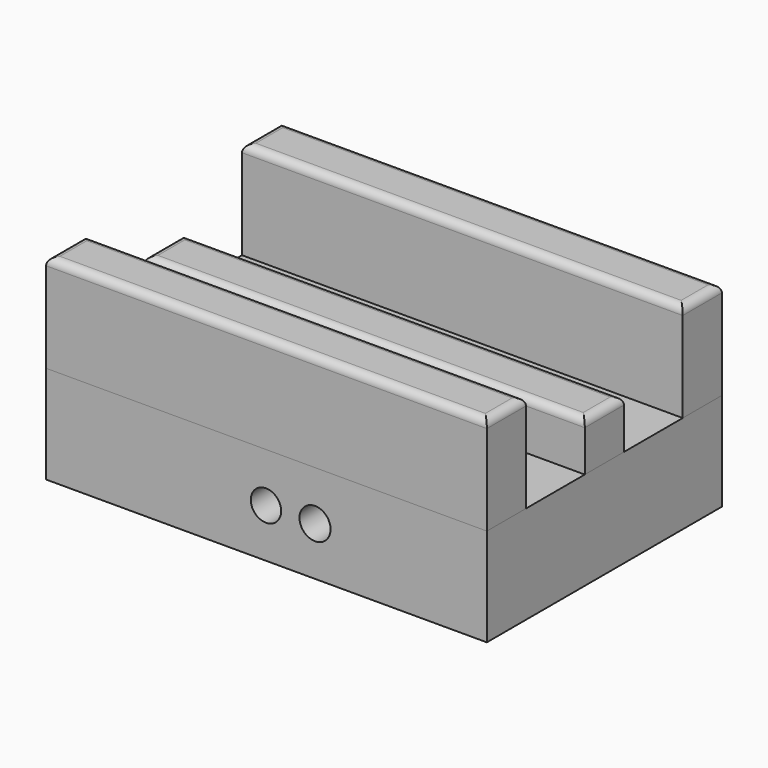
from build123d import *

# Parameters (mm, degrees)
BOX001_W     = 57.15
BOX001_H     = 6.35
BOX001_DEPTH = 12.7
FILLET_R     = 1
BOX002_W     = 57.15
BOX002_H     = 6.35
BOX002_DEPTH = 12.7
FILLET001_R  = 1
BOX003_W     = 57.15
BOX003_H     = 6.35
BOX003_DEPTH = 6.35
FILLET002_R  = 1
SKETCH005_R  = 2.01665
PAD004_DEPTH = 38.1
SKETCH002_R  = 1.968415
PAD001_DEPTH = 26.797
SKETCH004_R  = 1.520745
PAD003_DEPTH = 7.62
SKETCH003_R  = 1.513596
PAD002_DEPTH = 7.62
SKETCH001_R  = 1.519201
PAD_DEPTH    = 7.62
BOX_W        = 57.15
BOX_H        = 38.1
BOX_DEPTH    = 12.7


with BuildPart() as fillet_body:
    # Box001 → Box001 (new body)
    with BuildSketch(Plane.XY.offset(12.7)):
        with Locations((28.575, 3.175)):
            Rectangle(BOX001_W, BOX001_H)
    extrude(amount=BOX001_DEPTH)

    # Fillet
    fillet_edges = [fillet_body.edges().sort_by_distance(p)[0] for p in [
        (0, 3.175, 25.4),
        (57.15, 3.175, 25.4),
        (28.575, 0, 25.4),
        (28.575, 6.35, 25.4),
    ]]
    fillet(fillet_edges, radius=FILLET_R)


with BuildPart() as fillet001:
    # Box002 → Box002 (new body)
    with BuildSketch(Plane(origin=(0, 31.75, 12.7), x_dir=(1, 0, 0), z_dir=(0, 0, 1))):
        with Locations((28.575, 3.175)):
            Rectangle(BOX002_W, BOX002_H)
    extrude(amount=BOX002_DEPTH)

    # Fillet001
    fillet001_edges = [fillet001.edges().sort_by_distance(p)[0] for p in [
        (0, 34.925, 25.4),
        (57.15, 34.925, 25.4),
        (28.575, 31.75, 25.4),
        (28.575, 38.1, 25.4),
    ]]
    fillet(fillet001_edges, radius=FILLET001_R)


with BuildPart() as fillet002:
    # Box003 → Box003 (new body)
    with BuildSketch(Plane(origin=(0, 15.875, 12.7), x_dir=(1, 0, 0), z_dir=(0, 0, 1))):
        with Locations((28.575, 3.175)):
            Rectangle(BOX003_W, BOX003_H)
    extrude(amount=BOX003_DEPTH)

    # Fillet002
    fillet002_edges = [fillet002.edges().sort_by_distance(p)[0] for p in [
        (0, 19.05, 19.05),
        (57.15, 19.05, 19.05),
        (28.575, 15.875, 19.05),
        (28.575, 22.225, 19.05),
    ]]
    fillet(fillet002_edges, radius=FILLET002_R)


with BuildPart() as pad004:
    # Sketch005 → Pad004 (new body)
    with BuildSketch(Plane.XZ):
        with Locations((34.873043, 6.31109)):
            Circle(SKETCH005_R)
    extrude(amount=-PAD004_DEPTH)


with BuildPart() as pad001:
    # Sketch002 → Pad001 (new body)
    with BuildSketch(Plane.XZ):
        with Locations((28.509926, 6.30875)):
            Circle(SKETCH002_R)
    extrude(amount=-PAD001_DEPTH)


with BuildPart() as pad003:
    # Sketch004 → Pad003 (new body)
    with BuildSketch(Plane.XY.offset(5.08)):
        with Locations((28.523685, 25.366407)):
            Circle(SKETCH004_R)
    extrude(amount=PAD003_DEPTH)


with BuildPart() as fusion:
    # Sketch003 → Pad002 (new body)
    with BuildSketch(Plane.XY.offset(5.08)):
        with Locations((28.518757, 12.614189)):
            Circle(SKETCH003_R)
    extrude(amount=PAD002_DEPTH)

    # Fusion: union Pad001, Pad003
    add(pad001.part)
    add(pad003.part)


with BuildPart() as pad:
    # Sketch001 → Pad (new body)
    with BuildSketch(Plane.XY):
        with Locations((28.524174, 19.036169)):
            Circle(SKETCH001_R)
    extrude(amount=PAD_DEPTH)


with BuildPart() as fusion001:
    # Fusion001 base: copy of Pad
    add(pad.part)

    # Fusion001: union Fusion
    add(fusion.part)


with BuildPart() as cut002:
    # Box → Box (new body)
    with BuildSketch(Plane.XY):
        with Locations((28.575, 19.05)):
            Rectangle(BOX_W, BOX_H)
    extrude(amount=BOX_DEPTH)

    # Cut: cut Pad
    add(pad.part, mode=Mode.SUBTRACT)

    # Cut001: cut Fusion001
    add(fusion001.part, mode=Mode.SUBTRACT)

    # Cut002: cut Pad004
    add(pad004.part, mode=Mode.SUBTRACT)


solid = Compound([fillet_body.part, fillet001.part, fillet002.part, cut002.part])
